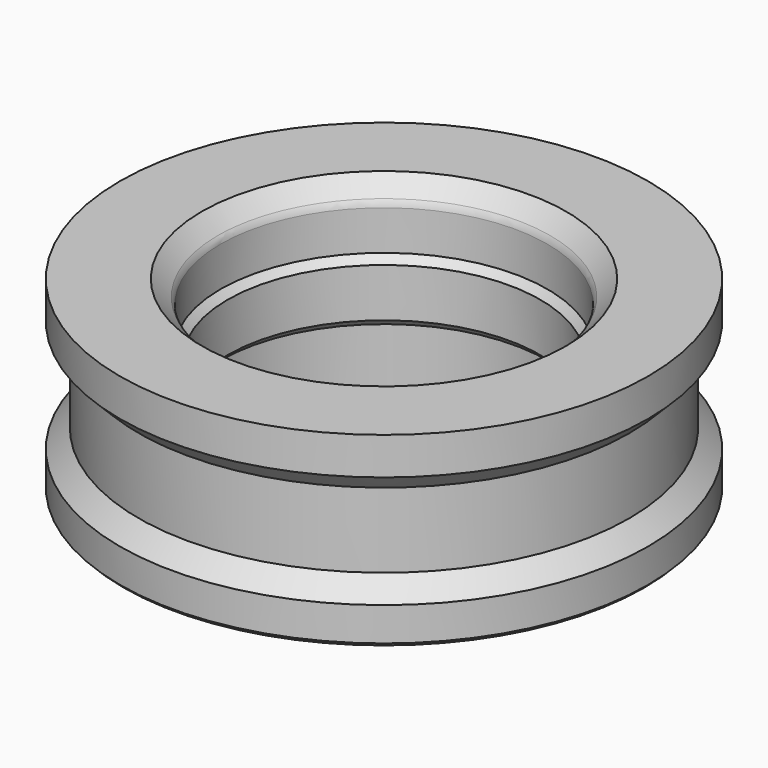
from build123d import *

# Parameters (mm, degrees)
F2_SIZE = 1
F3_R    = 0.5
F4_SIZE = 0.2


with BuildPart() as f1:
    # F0 (on Front) → F1 (revolve)
    with BuildSketch(Plane.XZ):
        Polygon((-8.35, -1.3), (-8.35, 0), (-8.35, 1.3), (-8.725, 1.675), (-8.725, 5), (-14.1, 5), (-14.1, 3), (-13.1, 2), (-13.1, 0), (-13.1, -2), (-14.1, -3), (-14.1, -5), (-8.725, -5), (-8.725, -1.675), align=None)
    revolve(axis=Axis((0, 0, 7.7657741494), (0, 0, 1)))

    # F2
    f2_edges = [f1.edges().sort_by_distance(p)[0] for p in [
        (8.725, 0, 5),
    ]]
    chamfer(f2_edges, length=F2_SIZE)

    # F3
    f3_edges = [f1.edges().sort_by_distance(p)[0] for p in [
        (8.725, 0, 4),
    ]]
    fillet(f3_edges, radius=F3_R)

    # F4
    f4_edges = [f1.edges().sort_by_distance(p)[0] for p in [
        (14.1, 0, -5),
        (8.725, 0, -5),
    ]]
    chamfer(f4_edges, length=F4_SIZE)


solid = f1.part
